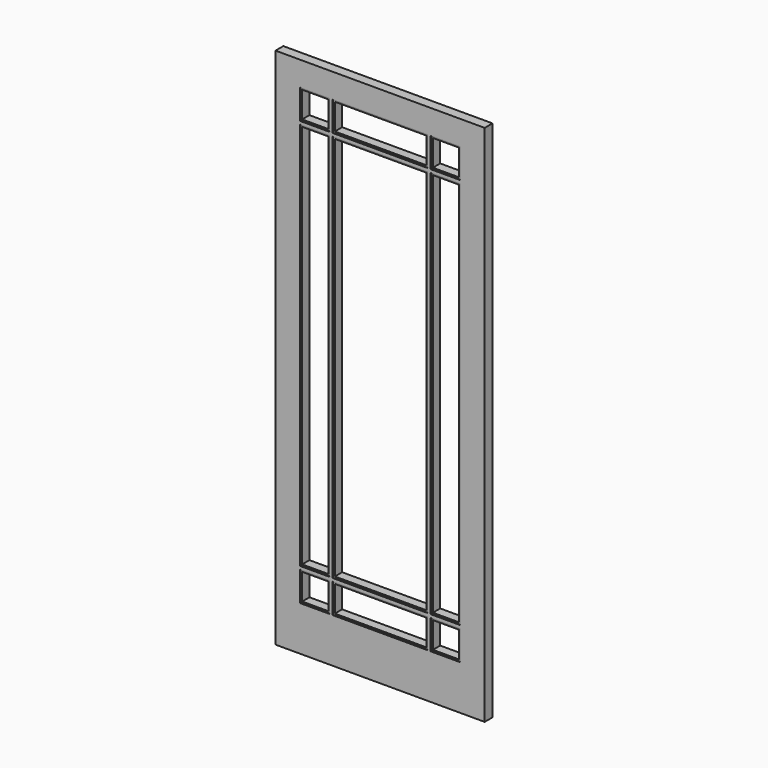
from build123d import *

# Parameters (mm, degrees)
F0_W     = 812.8
F0_H     = 2032
F1_DEPTH = 38.1
F2_W     = 101.6
F2_H     = 101.6
F2_W_2   = 355.6
F2_H_2   = 1496.789953
F4_DEPTH = 309.88
F3_W     = 368.3
F3_H     = 1509.489953
F3_W_2   = 114.3
F3_H_2   = 114.3
F3_W_3   = 114.30002
F3_H_3   = 114.30002
F5_DEPTH = 2.54


with BuildPart() as f1:
    # F0 (on Front) → F1 (new body)
    with BuildSketch(Plane.XZ):
        with Locations((-12.845491, 177.719557)):
            Rectangle(F0_W, F0_H)
    extrude(amount=F1_DEPTH)

    # F2 (on face) → F4 (cut)
    with BuildSketch(Plane.XZ.offset(38.1)):
        with Locations((-266.845491, 1041.319557)):
            Rectangle(F2_W, F2_H)
        with Locations((-12.845491, 1041.319557)):
            Rectangle(F2_W_2, F2_H)
        with Locations((241.154509, 1041.319557)):
            Rectangle(F2_W, F2_H)
        with Locations((-266.845491, 216.724581)):
            Rectangle(F2_W, F2_H_2)
        with Locations((-12.845491, 216.724581)):
            Rectangle(F2_W_2, F2_H_2)
        with Locations((241.154509, 216.724581)):
            Rectangle(F2_W, F2_H_2)
        with Locations((-12.845491, -607.870396)):
            Rectangle(F2_W_2, F2_H)
        with Locations((241.154509, -607.870396)):
            Rectangle(F2_W, F2_H)
        with Locations((-266.845491, -607.870396)):
            Rectangle(F2_W, F2_H)
    extrude(amount=-F4_DEPTH, mode=Mode.SUBTRACT)

    # F3 (on face) → F5 (cut)
    with BuildSketch(Plane.XZ.offset(38.1)):
        with Locations((-12.845491, 216.724581)):
            Rectangle(F3_W, F3_H)
        with Locations((-266.845491, 216.724581)):
            Rectangle(F3_W_2, F3_H)
        with Locations((-266.845491, 1041.319557)):
            Rectangle(F3_W_2, F3_H_2)
        with Locations((-12.845491, 1041.319557)):
            Rectangle(F3_W, F3_H_2)
        with Locations((241.154509, 1041.319557)):
            Rectangle(F3_W_2, F3_H_2)
        with Locations((241.154509, 216.724581)):
            Rectangle(F3_W_2, F3_H)
        with Locations((241.154509, -607.870396)):
            Rectangle(F3_W_2, F3_H_2)
        with Locations((-12.845491, -607.870396)):
            Rectangle(F3_W, F3_H_2)
        with Locations((-266.845491, -607.870396)):
            Rectangle(F3_W_3, F3_H_3)
    extrude(amount=-F5_DEPTH, mode=Mode.SUBTRACT)


solid = f1.part
